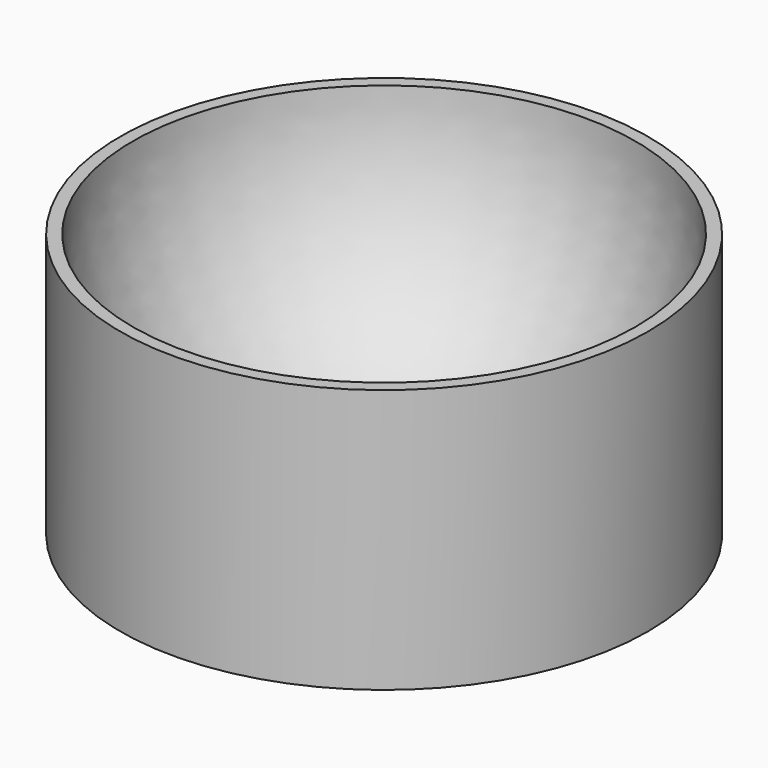
from build123d import *


with BuildPart() as f1:
    # F0 (on Front) → F1 (revolve)
    with BuildSketch(Plane.XZ):
        with BuildLine():
            ThreePointArc((5, 5), (3.535534, 1.464466), (0, 0))
            Line((0, 0), (5, 0))
            Line((5, 0), (5, 5))
        make_face()
        Polygon((5, 0), (0, 0), (0, -0.25), (5.25, -0.25), (5.25, 5), (5, 5), align=None)
    revolve(axis=Axis((0, 0, 2.5), (0, 0, 1)))


solid = f1.part
